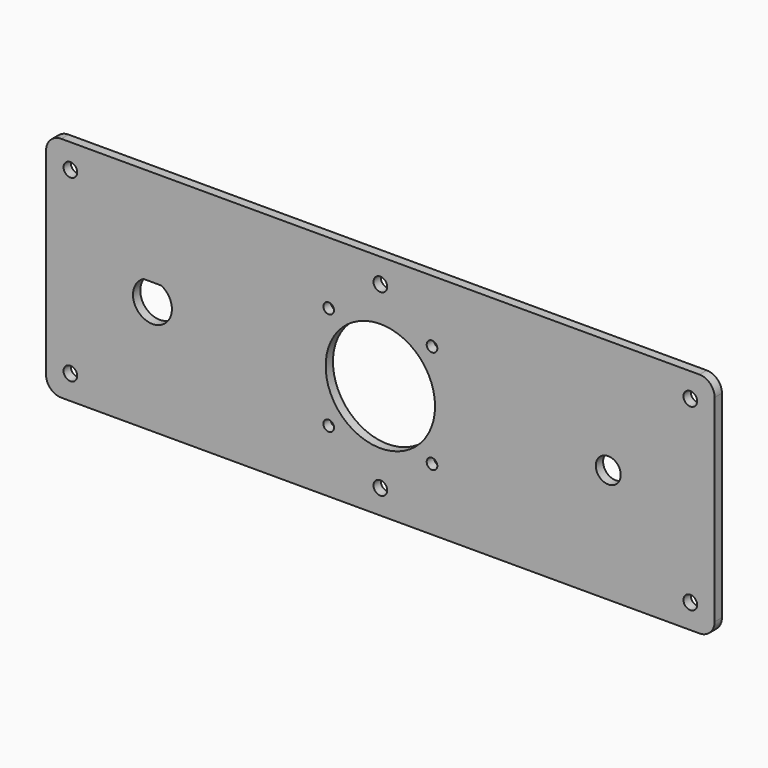
from build123d import *

# Parameters (mm, degrees)
F0_R     = 2.25
F0_R_2   = 1.75
F0_R_3   = 18
F0_R_4   = 4.1
F1_DEPTH = 3


with BuildPart() as f1:
    # F0 (on Front) → F1 (new body)
    with BuildSketch(Plane.XZ):
        with BuildLine():
            ThreePointArc((110, 32.5), (108.535534, 36.035534), (105, 37.5))
            Line((105, 37.5), (-105, 37.5))
            ThreePointArc((-105, 37.5), (-108.535534, 36.035534), (-110, 32.5))
            Line((-110, 32.5), (-110, -32.5))
            ThreePointArc((-110, -32.5), (-108.535534, -36.035534), (-105, -37.5))
            Line((-105, -37.5), (105, -37.5))
            ThreePointArc((105, -37.5), (108.535534, -36.035534), (110, -32.5))
            Line((110, -32.5), (110, 32.5))
        make_face()
        with Locations((-102, -29.5)):
            Circle(F0_R, mode=Mode.SUBTRACT)
        with BuildLine():
            ThreePointArc((-72.089674, 5.7), (-75, -6.4), (-77.910326, 5.7))
            Line((-77.910326, 5.7), (-72.089674, 5.7))
        make_face(mode=Mode.SUBTRACT)
        with Locations((-17, -17)):
            Circle(F0_R_2, mode=Mode.SUBTRACT)
        with Locations((0, -29.5)):
            Circle(F0_R, mode=Mode.SUBTRACT)
        with Locations((102, -29.5)):
            Circle(F0_R, mode=Mode.SUBTRACT)
        with Locations((17, -17)):
            Circle(F0_R_2, mode=Mode.SUBTRACT)
        with Locations((-17, 17)):
            Circle(F0_R_2, mode=Mode.SUBTRACT)
        with Locations((-102, 29.5)):
            Circle(F0_R, mode=Mode.SUBTRACT)
        Circle(F0_R_3, mode=Mode.SUBTRACT)
        with Locations((17, 17)):
            Circle(F0_R_2, mode=Mode.SUBTRACT)
        with Locations((75, 0)):
            Circle(F0_R_4, mode=Mode.SUBTRACT)
        with Locations((0, 29.5)):
            Circle(F0_R, mode=Mode.SUBTRACT)
        with Locations((102, 29.5)):
            Circle(F0_R, mode=Mode.SUBTRACT)
    extrude(amount=F1_DEPTH)


solid = f1.part
